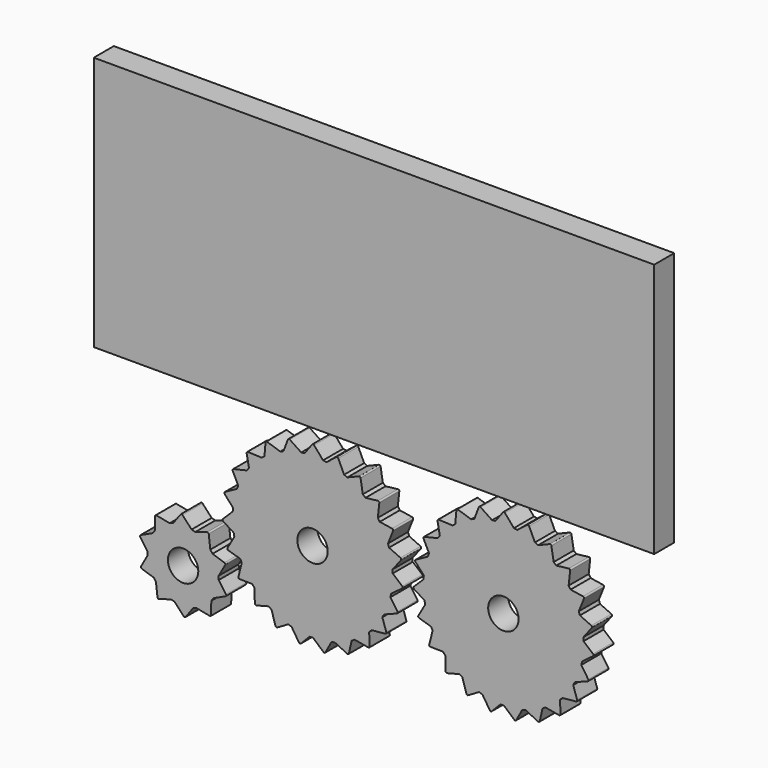
from build123d import *

# Parameters (mm, degrees)
F0_R     = 7.275329
F0_W     = 268.384851
F0_H     = 122.030161
F1_DEPTH = 12
F2_DEPTH = 12


with BuildPart() as f1:
    # F0 (on Front) → F1 (new body)
    with BuildSketch(Plane.XZ):
        with BuildLine():
            Line((-11.844229, 41.350073), (-13.967175, 35.724335))
            ThreePointArc((-13.967175, 35.724335), (-14.73732, 35.413578), (-15.500557, 35.08622))
            Line((-15.500557, 35.08622), (-21.792592, 37.129706))
            ThreePointArc((-21.792592, 37.129706), (-22.299465, 37.060723), (-22.561129, 36.621166))
            Line((-22.561129, 36.621166), (-23.087545, 30.631281))
            ThreePointArc((-23.087545, 30.631281), (-23.74529, 30.124265), (-24.391903, 29.603128))
            Line((-24.391903, 29.603128), (-31.001938, 29.873265))
            ThreePointArc((-31.001938, 29.873265), (-31.471403, 29.670087), (-31.604774, 29.176234))
            Line((-31.604774, 29.176234), (-30.495617, 23.266445))
            ThreePointArc((-30.495617, 23.266445), (-30.992179, 22.600773), (-31.474214, 21.924507))
            Line((-31.474214, 21.924507), (-37.912013, 20.40126))
            ThreePointArc((-37.912013, 20.40126), (-38.309252, 20.078957), (-38.304437, 19.567434))
            Line((-38.304437, 19.567434), (-35.641968, 14.176043))
            ThreePointArc((-35.641968, 14.176043), (-35.940521, 13.401085), (-36.222225, 12.619845))
            Line((-36.222225, 12.619845), (-42.010326, 9.416187))
            ThreePointArc((-42.010326, 9.416187), (-42.305879, 8.998662), (-42.163235, 8.507407))
            Line((-42.163235, 8.507407), (-38.144918, 4.034269))
            ThreePointArc((-38.144918, 4.034269), (-38.223318, 3.2075), (-38.283801, 2.379228))
            Line((-38.283801, 2.379228), (-42.992926, -2.267241))
            ThreePointArc((-42.992926, -2.267241), (-43.164872, -2.749022), (-42.894978, -3.183575))
            Line((-42.894978, -3.183575), (-37.818834, -6.406708))
            ThreePointArc((-37.818834, -6.406708), (-37.671267, -7.22397), (-37.506041, -8.037846))
            Line((-37.506041, -8.037846), (-40.786938, -13.782518))
            ThreePointArc((-40.786938, -13.782518), (-40.822524, -14.292824), (-40.445398, -14.638446))
            Line((-40.445398, -14.638446), (-34.6879, -16.37253))
            ThreePointArc((-34.6879, -16.37253), (-34.32531, -17.119672), (-33.946631, -17.85879))
            Line((-33.946631, -17.85879), (-35.555969, -24.275609))
            ThreePointArc((-35.555969, -24.275609), (-35.452556, -24.776593), (-34.996167, -25.007651))
            Line((-34.996167, -25.007651), (-28.984323, -25.124075))
            ThreePointArc((-28.984323, -25.124075), (-28.433603, -25.745686), (-27.869554, -26.355229))
            Line((-27.869554, -26.355229), (-27.687976, -32.968289))
            ThreePointArc((-27.687976, -32.968289), (-27.453235, -33.422795), (-26.951431, -33.522152))
            Line((-26.951431, -33.522152), (-21.131111, -32.012283))
            ThreePointArc((-21.131111, -32.012283), (-20.433104, -32.462261), (-19.725519, -32.897021))
            Line((-19.725519, -32.897021), (-17.766493, -39.215862))
            ThreePointArc((-17.766493, -39.215862), (-17.417832, -39.590181), (-16.907831, -39.550469))
            Line((-16.907831, -39.550469), (-11.710702, -36.526286))
            ThreePointArc((-11.710702, -36.526286), (-10.917176, -36.771257), (-10.118534, -36.998992))
            Line((-10.118534, -36.998992), (-6.52735, -42.554974))
            ThreePointArc((-6.52735, -42.554974), (-6.090629, -42.821344), (-5.610254, -42.645508))
            Line((-5.610254, -42.645508), (-1.421763, -38.331302))
            ThreePointArc((-1.421763, -38.331302), (-0.591571, -38.353098), (0.238898, -38.356917))
            Line((0.238898, -38.356917), (5.195896, -42.737978))
            ThreePointArc((5.195896, -42.737978), (5.688289, -42.876645), (6.10341, -42.577726))
            Line((6.10341, -42.577726), (8.972621, -37.29346))
            ThreePointArc((8.972621, -37.29346), (9.777908, -37.090466), (10.578611, -36.870084))
            Line((10.578611, -36.870084), (16.533787, -39.751302))
            ThreePointArc((16.533787, -39.751302), (17.045332, -39.751981), (17.364412, -39.352148))
            Line((17.364412, -39.352148), (18.701547, -33.489733))
            ThreePointArc((18.701547, -33.489733), (19.422204, -33.077002), (20.133757, -32.648766))
            Line((20.133757, -32.648766), (26.645442, -33.816453))
            ThreePointArc((26.645442, -33.816453), (27.138201, -33.679094), (27.337575, -33.208001))
            Line((27.337575, -33.208001), (27.043465, -27.202226))
            ThreePointArc((27.043465, -27.202226), (27.626045, -26.610369), (28.195674, -26.006039))
            Line((28.195674, -26.006039), (34.780927, -25.373593))
            ThreePointArc((34.780927, -25.373593), (35.218353, -25.108383), (35.283235, -24.600969))
            Line((35.283235, -24.600969), (33.379693, -18.897254))
            ThreePointArc((33.379693, -18.897254), (33.780988, -18.170167), (34.166448, -17.434563))
            Line((34.166448, -17.434563), (40.336869, -15.04889))
            ThreePointArc((40.336869, -15.04889), (40.686522, -14.675498), (40.612099, -14.169395))
            Line((40.612099, -14.169395), (37.240302, -9.190759))
            ThreePointArc((37.240302, -9.190759), (37.43055, -8.382367), (37.603252, -7.570044))
            Line((37.603252, -7.570044), (42.901211, -3.608079))
            ThreePointArc((42.901211, -3.608079), (43.137157, -3.154198), (42.928949, -2.686942))
            Line((42.928949, -2.686942), (38.338967, 1.197372))
            ThreePointArc((38.338967, 1.197372), (38.304059, 2.027116), (38.251195, 2.855909))
            Line((38.251195, 2.855909), (42.283765, 8.100326))
            ThreePointArc((42.283765, 8.100326), (42.388507, 8.601034), (42.061956, 8.994789))
            Line((42.061956, 8.994789), (36.594207, 11.4967))
            ThreePointArc((36.594207, 11.4967), (36.336731, 12.286256), (36.062222, 13.070053))
            Line((36.062222, 13.070053), (38.530327, 19.207968))
            ThreePointArc((38.530327, 19.207968), (38.496095, 19.718366), (38.075419, 20.009417))
            Line((38.075419, 20.009417), (32.135422, 20.94337))
            ThreePointArc((32.135422, 20.94337), (31.674474, 21.634181), (31.198678, 22.314851))
            Line((31.198678, 22.314851), (31.91927, 28.891042))
            ThreePointArc((31.91927, 28.891042), (31.748604, 29.373278), (31.265003, 29.540039))
            Line((31.265003, 29.540039), (25.2933, 28.836766))
            ThreePointArc((25.2933, 28.836766), (24.663067, 29.377598), (24.021272, 29.904659))
            Line((24.021272, 29.904659), (22.940907, 36.4314))
            ThreePointArc((22.940907, 36.4314), (22.646464, 36.849708), (22.135805, 36.879811))
            Line((22.135805, 36.879811), (16.575289, 34.591471))
            ThreePointArc((16.575289, 34.591471), (15.822512, 34.942213), (15.062318, 35.276574))
            Line((15.062318, 35.276574), (12.261122, 41.269807))
            ThreePointArc((12.261122, 41.269807), (11.864739, 41.593164), (11.364895, 41.484376))
            Line((11.364895, 41.484376), (6.627965, 37.780685))
            ThreePointArc((6.627965, 37.780685), (5.808474, 37.915323), (4.98626, 38.032188))
            Line((4.98626, 38.032188), (0.671986, 43.047422))
            ThreePointArc((0.671986, 43.047422), (0.203061, 43.251845), (-0.248897, 43.012235))
            Line((-0.248897, 43.012235), (-3.810924, 38.167879))
            ThreePointArc((-3.810924, 38.167879), (-4.636352, 38.076428), (-5.459605, 37.967128))
            Line((-5.459605, 37.967128), (-10.966989, 41.632406))
            ThreePointArc((-10.966989, 41.632406), (-11.473677, 41.702734), (-11.844229, 41.350073))
        make_face()
        with Locations((-0.052359, 0.366526)):
            Circle(F0_R, mode=Mode.SUBTRACT)
        with BuildLine():
            Line((79.551505, 42.504045), (77.428559, 36.878307))
            ThreePointArc((77.428559, 36.878307), (76.658414, 36.56755), (75.895177, 36.240192))
            Line((75.895177, 36.240192), (69.603142, 38.283677))
            ThreePointArc((69.603142, 38.283677), (69.096269, 38.214694), (68.834605, 37.775137))
            Line((68.834605, 37.775137), (68.308189, 31.785253))
            ThreePointArc((68.308189, 31.785253), (67.650444, 31.278237), (67.003831, 30.757099))
            Line((67.003831, 30.757099), (60.393796, 31.027236))
            ThreePointArc((60.393796, 31.027236), (59.924331, 30.824059), (59.79096, 30.330205))
            Line((59.79096, 30.330205), (60.900117, 24.420417))
            ThreePointArc((60.900117, 24.420417), (60.403555, 23.754745), (59.92152, 23.078478))
            Line((59.92152, 23.078478), (53.483721, 21.555232))
            ThreePointArc((53.483721, 21.555232), (53.086482, 21.232928), (53.091297, 20.721405))
            Line((53.091297, 20.721405), (55.753765, 15.330015))
            ThreePointArc((55.753765, 15.330015), (55.455213, 14.555057), (55.173508, 13.773817))
            Line((55.173508, 13.773817), (49.385408, 10.570159))
            ThreePointArc((49.385408, 10.570159), (49.089855, 10.152634), (49.232499, 9.661379))
            Line((49.232499, 9.661379), (53.250816, 5.188241))
            ThreePointArc((53.250816, 5.188241), (53.172416, 4.361472), (53.111933, 3.533199))
            Line((53.111933, 3.533199), (48.402807, -1.113269))
            ThreePointArc((48.402807, -1.113269), (48.230862, -1.595051), (48.500755, -2.029604))
            Line((48.500755, -2.029604), (53.5769, -5.252737))
            ThreePointArc((53.5769, -5.252737), (53.724467, -6.069999), (53.889693, -6.883875))
            Line((53.889693, -6.883875), (50.608796, -12.628547))
            ThreePointArc((50.608796, -12.628547), (50.57321, -13.138853), (50.950336, -13.484475))
            Line((50.950336, -13.484475), (56.707834, -15.218558))
            ThreePointArc((56.707834, -15.218558), (57.070423, -15.965701), (57.449103, -16.704818))
            Line((57.449103, -16.704818), (55.839765, -23.121638))
            ThreePointArc((55.839765, -23.121638), (55.943178, -23.622621), (56.399567, -23.853679))
            Line((56.399567, -23.853679), (62.411411, -23.970104))
            ThreePointArc((62.411411, -23.970104), (62.962131, -24.591715), (63.52618, -25.201257))
            Line((63.52618, -25.201257), (63.707758, -31.814318))
            ThreePointArc((63.707758, -31.814318), (63.942499, -32.268823), (64.444303, -32.368181))
            Line((64.444303, -32.368181), (70.264623, -30.858311))
            ThreePointArc((70.264623, -30.858311), (70.96263, -31.308289), (71.670215, -31.74305))
            Line((71.670215, -31.74305), (73.629241, -38.061891))
            ThreePointArc((73.629241, -38.061891), (73.977902, -38.436209), (74.487903, -38.396497))
            Line((74.487903, -38.396497), (79.685032, -35.372315))
            ThreePointArc((79.685032, -35.372315), (80.478558, -35.617286), (81.2772, -35.84502))
            Line((81.2772, -35.84502), (84.868384, -41.401002))
            ThreePointArc((84.868384, -41.401002), (85.305105, -41.667373), (85.78548, -41.491537))
            Line((85.78548, -41.491537), (89.973971, -37.17733))
            ThreePointArc((89.973971, -37.17733), (90.804163, -37.199127), (91.634632, -37.202945))
            Line((91.634632, -37.202945), (96.59163, -41.584007))
            ThreePointArc((96.59163, -41.584007), (97.084023, -41.722673), (97.499144, -41.423754))
            Line((97.499144, -41.423754), (100.368355, -36.139489))
            ThreePointArc((100.368355, -36.139489), (101.173642, -35.936494), (101.974345, -35.716113))
            Line((101.974345, -35.716113), (107.929521, -38.59733))
            ThreePointArc((107.929521, -38.59733), (108.441066, -38.598009), (108.760146, -38.198176))
            Line((108.760146, -38.198176), (110.097281, -32.335762))
            ThreePointArc((110.097281, -32.335762), (110.817938, -31.923031), (111.529491, -31.494795))
            Line((111.529491, -31.494795), (118.041176, -32.662482))
            ThreePointArc((118.041176, -32.662482), (118.533935, -32.525122), (118.733309, -32.054029))
            Line((118.733309, -32.054029), (118.439199, -26.048255))
            ThreePointArc((118.439199, -26.048255), (119.021779, -25.456398), (119.591408, -24.852067))
            Line((119.591408, -24.852067), (126.176661, -24.219622))
            ThreePointArc((126.176661, -24.219622), (126.614087, -23.954411), (126.678969, -23.446997))
            Line((126.678969, -23.446997), (124.775427, -17.743283))
            ThreePointArc((124.775427, -17.743283), (125.176722, -17.016196), (125.562182, -16.280591))
            Line((125.562182, -16.280591), (131.732603, -13.894918))
            ThreePointArc((131.732603, -13.894918), (132.082256, -13.521526), (132.007833, -13.015424))
            Line((132.007833, -13.015424), (128.636036, -8.036788))
            ThreePointArc((128.636036, -8.036788), (128.826284, -7.228395), (128.998986, -6.416073))
            Line((128.998986, -6.416073), (134.296945, -2.454108))
            ThreePointArc((134.296945, -2.454108), (134.532891, -2.000227), (134.324683, -1.532971))
            Line((134.324683, -1.532971), (129.734701, 2.351344))
            ThreePointArc((129.734701, 2.351344), (129.699793, 3.181087), (129.646929, 4.009881))
            Line((129.646929, 4.009881), (133.679499, 9.254298))
            ThreePointArc((133.679499, 9.254298), (133.784241, 9.755005), (133.45769, 10.14876))
            Line((133.45769, 10.14876), (127.989941, 12.650671))
            ThreePointArc((127.989941, 12.650671), (127.732465, 13.440228), (127.457956, 14.224025))
            Line((127.457956, 14.224025), (129.926061, 20.361939))
            ThreePointArc((129.926061, 20.361939), (129.891829, 20.872338), (129.471153, 21.163389))
            Line((129.471153, 21.163389), (123.531156, 22.097342))
            ThreePointArc((123.531156, 22.097342), (123.070208, 22.788153), (122.594412, 23.468823))
            Line((122.594412, 23.468823), (123.315004, 30.045013))
            ThreePointArc((123.315004, 30.045013), (123.144338, 30.52725), (122.660737, 30.694011))
            Line((122.660737, 30.694011), (116.689034, 29.990738))
            ThreePointArc((116.689034, 29.990738), (116.058801, 30.53157), (115.417006, 31.05863))
            Line((115.417006, 31.05863), (114.336641, 37.585371))
            ThreePointArc((114.336641, 37.585371), (114.042198, 38.003679), (113.531539, 38.033783))
            Line((113.531539, 38.033783), (107.971023, 35.745443))
            ThreePointArc((107.971023, 35.745443), (107.218246, 36.096184), (106.458052, 36.430546))
            Line((106.458052, 36.430546), (103.656856, 42.423779))
            ThreePointArc((103.656856, 42.423779), (103.260473, 42.747135), (102.760629, 42.638348))
            Line((102.760629, 42.638348), (98.023699, 38.934657))
            ThreePointArc((98.023699, 38.934657), (97.204208, 39.069295), (96.381994, 39.18616))
            Line((96.381994, 39.18616), (92.06772, 44.201394))
            ThreePointArc((92.06772, 44.201394), (91.598795, 44.405816), (91.146837, 44.166207))
            Line((91.146837, 44.166207), (87.58481, 39.32185))
            ThreePointArc((87.58481, 39.32185), (86.759382, 39.230399), (85.936129, 39.1211))
            Line((85.936129, 39.1211), (80.428745, 42.786378))
            ThreePointArc((80.428745, 42.786378), (79.922057, 42.856706), (79.551505, 42.504045))
        make_face()
        with Locations((91.343375, 1.520498)):
            Circle(F0_R, mode=Mode.SUBTRACT)
        with BuildLine():
            ThreePointArc((-62.332245, -6.889978), (-62.797472, -6.702605), (-63.238364, -6.941688))
            Line((-63.238364, -6.941688), (-66.800391, -11.786044))
            ThreePointArc((-66.800391, -11.786044), (-67.645736, -12.056012), (-68.475898, -12.369575))
            Line((-68.475898, -12.369575), (-74.781066, -11.127882))
            ThreePointArc((-74.781066, -11.127882), (-75.267578, -11.249748), (-75.483738, -11.702319))
            Line((-75.483738, -11.702319), (-75.518037, -17.715193))
            ThreePointArc((-75.518037, -17.715193), (-76.043252, -18.430483), (-76.53056, -19.172118))
            Line((-76.53056, -19.172118), (-82.361397, -21.873652))
            ThreePointArc((-82.361397, -21.873652), (-82.683362, -22.258208), (-82.592224, -22.751401))
            Line((-82.592224, -22.751401), (-79.085694, -27.63608))
            ThreePointArc((-79.085694, -27.63608), (-79.090166, -28.523475), (-79.048483, -29.409902))
            Line((-79.048483, -29.409902), (-82.177808, -35.022769))
            ThreePointArc((-82.177808, -35.022769), (-82.212247, -35.523128), (-81.848623, -35.86856))
            Line((-81.848623, -35.86856), (-76.140639, -37.759261))
            ThreePointArc((-76.140639, -37.759261), (-75.622658, -38.479807), (-75.067908, -39.172442))
            Line((-75.067908, -39.172442), (-74.300424, -45.552717))
            ThreePointArc((-74.300424, -45.552717), (-74.034182, -45.977759), (-73.536965, -46.043487))
            Line((-73.536965, -46.043487), (-67.807782, -44.218027))
            ThreePointArc((-67.807782, -44.218027), (-66.965201, -44.4965), (-66.109278, -44.730779))
            Line((-66.109278, -44.730779), (-61.738139, -49.441414))
            ThreePointArc((-61.738139, -49.441414), (-61.272911, -49.628787), (-60.83202, -49.389705))
            Line((-60.83202, -49.389705), (-57.269992, -44.545348))
            ThreePointArc((-57.269992, -44.545348), (-56.424647, -44.27538), (-55.594485, -43.961817))
            Line((-55.594485, -43.961817), (-49.289318, -45.203511))
            ThreePointArc((-49.289318, -45.203511), (-48.802806, -45.081644), (-48.586646, -44.629073))
            Line((-48.586646, -44.629073), (-48.552346, -38.616199))
            ThreePointArc((-48.552346, -38.616199), (-48.027131, -37.900909), (-47.539824, -37.159274))
            Line((-47.539824, -37.159274), (-41.708987, -34.457741))
            ThreePointArc((-41.708987, -34.457741), (-41.387022, -34.073184), (-41.47816, -33.579991))
            Line((-41.47816, -33.579991), (-44.984689, -28.695313))
            ThreePointArc((-44.984689, -28.695313), (-44.980218, -27.807917), (-45.0219, -26.92149))
            Line((-45.0219, -26.92149), (-41.892576, -21.308624))
            ThreePointArc((-41.892576, -21.308624), (-41.858137, -20.808264), (-42.221761, -20.462832))
            Line((-42.221761, -20.462832), (-47.929745, -18.572131))
            ThreePointArc((-47.929745, -18.572131), (-48.447725, -17.851585), (-49.002476, -17.158951))
            Line((-49.002476, -17.158951), (-49.769959, -10.778675))
            ThreePointArc((-49.769959, -10.778675), (-50.036201, -10.353634), (-50.533419, -10.287906))
            Line((-50.533419, -10.287906), (-56.262601, -12.113365))
            ThreePointArc((-56.262601, -12.113365), (-57.105183, -11.834893), (-57.961106, -11.600614))
            Line((-57.961106, -11.600614), (-62.332245, -6.889978))
        make_face()
        with Locations((-62.035192, -28.165696)):
            Circle(F0_R, mode=Mode.SUBTRACT)
        with Locations((29.370528, 111.077908)):
            Rectangle(F0_W, F0_H)
    extrude(amount=F1_DEPTH)

    # F0 (on Front) → F2 (join)
    with BuildSketch(Plane.XZ):
        with BuildLine():
            Line((-11.844229, 41.350073), (-13.967175, 35.724335))
            ThreePointArc((-13.967175, 35.724335), (-14.73732, 35.413578), (-15.500557, 35.08622))
            Line((-15.500557, 35.08622), (-21.792592, 37.129706))
            ThreePointArc((-21.792592, 37.129706), (-22.299465, 37.060723), (-22.561129, 36.621166))
            Line((-22.561129, 36.621166), (-23.087545, 30.631281))
            ThreePointArc((-23.087545, 30.631281), (-23.74529, 30.124265), (-24.391903, 29.603128))
            Line((-24.391903, 29.603128), (-31.001938, 29.873265))
            ThreePointArc((-31.001938, 29.873265), (-31.471403, 29.670087), (-31.604774, 29.176234))
            Line((-31.604774, 29.176234), (-30.495617, 23.266445))
            ThreePointArc((-30.495617, 23.266445), (-30.992179, 22.600773), (-31.474214, 21.924507))
            Line((-31.474214, 21.924507), (-37.912013, 20.40126))
            ThreePointArc((-37.912013, 20.40126), (-38.309252, 20.078957), (-38.304437, 19.567434))
            Line((-38.304437, 19.567434), (-35.641968, 14.176043))
            ThreePointArc((-35.641968, 14.176043), (-35.940521, 13.401085), (-36.222225, 12.619845))
            Line((-36.222225, 12.619845), (-42.010326, 9.416187))
            ThreePointArc((-42.010326, 9.416187), (-42.305879, 8.998662), (-42.163235, 8.507407))
            Line((-42.163235, 8.507407), (-38.144918, 4.034269))
            ThreePointArc((-38.144918, 4.034269), (-38.223318, 3.2075), (-38.283801, 2.379228))
            Line((-38.283801, 2.379228), (-42.992926, -2.267241))
            ThreePointArc((-42.992926, -2.267241), (-43.164872, -2.749022), (-42.894978, -3.183575))
            Line((-42.894978, -3.183575), (-37.818834, -6.406708))
            ThreePointArc((-37.818834, -6.406708), (-37.671267, -7.22397), (-37.506041, -8.037846))
            Line((-37.506041, -8.037846), (-40.786938, -13.782518))
            ThreePointArc((-40.786938, -13.782518), (-40.822524, -14.292824), (-40.445398, -14.638446))
            Line((-40.445398, -14.638446), (-34.6879, -16.37253))
            ThreePointArc((-34.6879, -16.37253), (-34.32531, -17.119672), (-33.946631, -17.85879))
            Line((-33.946631, -17.85879), (-35.555969, -24.275609))
            ThreePointArc((-35.555969, -24.275609), (-35.452556, -24.776593), (-34.996167, -25.007651))
            Line((-34.996167, -25.007651), (-28.984323, -25.124075))
            ThreePointArc((-28.984323, -25.124075), (-28.433603, -25.745686), (-27.869554, -26.355229))
            Line((-27.869554, -26.355229), (-27.687976, -32.968289))
            ThreePointArc((-27.687976, -32.968289), (-27.453235, -33.422795), (-26.951431, -33.522152))
            Line((-26.951431, -33.522152), (-21.131111, -32.012283))
            ThreePointArc((-21.131111, -32.012283), (-20.433104, -32.462261), (-19.725519, -32.897021))
            Line((-19.725519, -32.897021), (-17.766493, -39.215862))
            ThreePointArc((-17.766493, -39.215862), (-17.417832, -39.590181), (-16.907831, -39.550469))
            Line((-16.907831, -39.550469), (-11.710702, -36.526286))
            ThreePointArc((-11.710702, -36.526286), (-10.917176, -36.771257), (-10.118534, -36.998992))
            Line((-10.118534, -36.998992), (-6.52735, -42.554974))
            ThreePointArc((-6.52735, -42.554974), (-6.090629, -42.821344), (-5.610254, -42.645508))
            Line((-5.610254, -42.645508), (-1.421763, -38.331302))
            ThreePointArc((-1.421763, -38.331302), (-0.591571, -38.353098), (0.238898, -38.356917))
            Line((0.238898, -38.356917), (5.195896, -42.737978))
            ThreePointArc((5.195896, -42.737978), (5.688289, -42.876645), (6.10341, -42.577726))
            Line((6.10341, -42.577726), (8.972621, -37.29346))
            ThreePointArc((8.972621, -37.29346), (9.777908, -37.090466), (10.578611, -36.870084))
            Line((10.578611, -36.870084), (16.533787, -39.751302))
            ThreePointArc((16.533787, -39.751302), (17.045332, -39.751981), (17.364412, -39.352148))
            Line((17.364412, -39.352148), (18.701547, -33.489733))
            ThreePointArc((18.701547, -33.489733), (19.422204, -33.077002), (20.133757, -32.648766))
            Line((20.133757, -32.648766), (26.645442, -33.816453))
            ThreePointArc((26.645442, -33.816453), (27.138201, -33.679094), (27.337575, -33.208001))
            Line((27.337575, -33.208001), (27.043465, -27.202226))
            ThreePointArc((27.043465, -27.202226), (27.626045, -26.610369), (28.195674, -26.006039))
            Line((28.195674, -26.006039), (34.780927, -25.373593))
            ThreePointArc((34.780927, -25.373593), (35.218353, -25.108383), (35.283235, -24.600969))
            Line((35.283235, -24.600969), (33.379693, -18.897254))
            ThreePointArc((33.379693, -18.897254), (33.780988, -18.170167), (34.166448, -17.434563))
            Line((34.166448, -17.434563), (40.336869, -15.04889))
            ThreePointArc((40.336869, -15.04889), (40.686522, -14.675498), (40.612099, -14.169395))
            Line((40.612099, -14.169395), (37.240302, -9.190759))
            ThreePointArc((37.240302, -9.190759), (37.43055, -8.382367), (37.603252, -7.570044))
            Line((37.603252, -7.570044), (42.901211, -3.608079))
            ThreePointArc((42.901211, -3.608079), (43.137157, -3.154198), (42.928949, -2.686942))
            Line((42.928949, -2.686942), (38.338967, 1.197372))
            ThreePointArc((38.338967, 1.197372), (38.304059, 2.027116), (38.251195, 2.855909))
            Line((38.251195, 2.855909), (42.283765, 8.100326))
            ThreePointArc((42.283765, 8.100326), (42.388507, 8.601034), (42.061956, 8.994789))
            Line((42.061956, 8.994789), (36.594207, 11.4967))
            ThreePointArc((36.594207, 11.4967), (36.336731, 12.286256), (36.062222, 13.070053))
            Line((36.062222, 13.070053), (38.530327, 19.207968))
            ThreePointArc((38.530327, 19.207968), (38.496095, 19.718366), (38.075419, 20.009417))
            Line((38.075419, 20.009417), (32.135422, 20.94337))
            ThreePointArc((32.135422, 20.94337), (31.674474, 21.634181), (31.198678, 22.314851))
            Line((31.198678, 22.314851), (31.91927, 28.891042))
            ThreePointArc((31.91927, 28.891042), (31.748604, 29.373278), (31.265003, 29.540039))
            Line((31.265003, 29.540039), (25.2933, 28.836766))
            ThreePointArc((25.2933, 28.836766), (24.663067, 29.377598), (24.021272, 29.904659))
            Line((24.021272, 29.904659), (22.940907, 36.4314))
            ThreePointArc((22.940907, 36.4314), (22.646464, 36.849708), (22.135805, 36.879811))
            Line((22.135805, 36.879811), (16.575289, 34.591471))
            ThreePointArc((16.575289, 34.591471), (15.822512, 34.942213), (15.062318, 35.276574))
            Line((15.062318, 35.276574), (12.261122, 41.269807))
            ThreePointArc((12.261122, 41.269807), (11.864739, 41.593164), (11.364895, 41.484376))
            Line((11.364895, 41.484376), (6.627965, 37.780685))
            ThreePointArc((6.627965, 37.780685), (5.808474, 37.915323), (4.98626, 38.032188))
            Line((4.98626, 38.032188), (0.671986, 43.047422))
            ThreePointArc((0.671986, 43.047422), (0.203061, 43.251845), (-0.248897, 43.012235))
            Line((-0.248897, 43.012235), (-3.810924, 38.167879))
            ThreePointArc((-3.810924, 38.167879), (-4.636352, 38.076428), (-5.459605, 37.967128))
            Line((-5.459605, 37.967128), (-10.966989, 41.632406))
            ThreePointArc((-10.966989, 41.632406), (-11.473677, 41.702734), (-11.844229, 41.350073))
        make_face()
        with Locations((-0.052359, 0.366526)):
            Circle(F0_R, mode=Mode.SUBTRACT)
        with BuildLine():
            Line((79.551505, 42.504045), (77.428559, 36.878307))
            ThreePointArc((77.428559, 36.878307), (76.658414, 36.56755), (75.895177, 36.240192))
            Line((75.895177, 36.240192), (69.603142, 38.283677))
            ThreePointArc((69.603142, 38.283677), (69.096269, 38.214694), (68.834605, 37.775137))
            Line((68.834605, 37.775137), (68.308189, 31.785253))
            ThreePointArc((68.308189, 31.785253), (67.650444, 31.278237), (67.003831, 30.757099))
            Line((67.003831, 30.757099), (60.393796, 31.027236))
            ThreePointArc((60.393796, 31.027236), (59.924331, 30.824059), (59.79096, 30.330205))
            Line((59.79096, 30.330205), (60.900117, 24.420417))
            ThreePointArc((60.900117, 24.420417), (60.403555, 23.754745), (59.92152, 23.078478))
            Line((59.92152, 23.078478), (53.483721, 21.555232))
            ThreePointArc((53.483721, 21.555232), (53.086482, 21.232928), (53.091297, 20.721405))
            Line((53.091297, 20.721405), (55.753765, 15.330015))
            ThreePointArc((55.753765, 15.330015), (55.455213, 14.555057), (55.173508, 13.773817))
            Line((55.173508, 13.773817), (49.385408, 10.570159))
            ThreePointArc((49.385408, 10.570159), (49.089855, 10.152634), (49.232499, 9.661379))
            Line((49.232499, 9.661379), (53.250816, 5.188241))
            ThreePointArc((53.250816, 5.188241), (53.172416, 4.361472), (53.111933, 3.533199))
            Line((53.111933, 3.533199), (48.402807, -1.113269))
            ThreePointArc((48.402807, -1.113269), (48.230862, -1.595051), (48.500755, -2.029604))
            Line((48.500755, -2.029604), (53.5769, -5.252737))
            ThreePointArc((53.5769, -5.252737), (53.724467, -6.069999), (53.889693, -6.883875))
            Line((53.889693, -6.883875), (50.608796, -12.628547))
            ThreePointArc((50.608796, -12.628547), (50.57321, -13.138853), (50.950336, -13.484475))
            Line((50.950336, -13.484475), (56.707834, -15.218558))
            ThreePointArc((56.707834, -15.218558), (57.070423, -15.965701), (57.449103, -16.704818))
            Line((57.449103, -16.704818), (55.839765, -23.121638))
            ThreePointArc((55.839765, -23.121638), (55.943178, -23.622621), (56.399567, -23.853679))
            Line((56.399567, -23.853679), (62.411411, -23.970104))
            ThreePointArc((62.411411, -23.970104), (62.962131, -24.591715), (63.52618, -25.201257))
            Line((63.52618, -25.201257), (63.707758, -31.814318))
            ThreePointArc((63.707758, -31.814318), (63.942499, -32.268823), (64.444303, -32.368181))
            Line((64.444303, -32.368181), (70.264623, -30.858311))
            ThreePointArc((70.264623, -30.858311), (70.96263, -31.308289), (71.670215, -31.74305))
            Line((71.670215, -31.74305), (73.629241, -38.061891))
            ThreePointArc((73.629241, -38.061891), (73.977902, -38.436209), (74.487903, -38.396497))
            Line((74.487903, -38.396497), (79.685032, -35.372315))
            ThreePointArc((79.685032, -35.372315), (80.478558, -35.617286), (81.2772, -35.84502))
            Line((81.2772, -35.84502), (84.868384, -41.401002))
            ThreePointArc((84.868384, -41.401002), (85.305105, -41.667373), (85.78548, -41.491537))
            Line((85.78548, -41.491537), (89.973971, -37.17733))
            ThreePointArc((89.973971, -37.17733), (90.804163, -37.199127), (91.634632, -37.202945))
            Line((91.634632, -37.202945), (96.59163, -41.584007))
            ThreePointArc((96.59163, -41.584007), (97.084023, -41.722673), (97.499144, -41.423754))
            Line((97.499144, -41.423754), (100.368355, -36.139489))
            ThreePointArc((100.368355, -36.139489), (101.173642, -35.936494), (101.974345, -35.716113))
            Line((101.974345, -35.716113), (107.929521, -38.59733))
            ThreePointArc((107.929521, -38.59733), (108.441066, -38.598009), (108.760146, -38.198176))
            Line((108.760146, -38.198176), (110.097281, -32.335762))
            ThreePointArc((110.097281, -32.335762), (110.817938, -31.923031), (111.529491, -31.494795))
            Line((111.529491, -31.494795), (118.041176, -32.662482))
            ThreePointArc((118.041176, -32.662482), (118.533935, -32.525122), (118.733309, -32.054029))
            Line((118.733309, -32.054029), (118.439199, -26.048255))
            ThreePointArc((118.439199, -26.048255), (119.021779, -25.456398), (119.591408, -24.852067))
            Line((119.591408, -24.852067), (126.176661, -24.219622))
            ThreePointArc((126.176661, -24.219622), (126.614087, -23.954411), (126.678969, -23.446997))
            Line((126.678969, -23.446997), (124.775427, -17.743283))
            ThreePointArc((124.775427, -17.743283), (125.176722, -17.016196), (125.562182, -16.280591))
            Line((125.562182, -16.280591), (131.732603, -13.894918))
            ThreePointArc((131.732603, -13.894918), (132.082256, -13.521526), (132.007833, -13.015424))
            Line((132.007833, -13.015424), (128.636036, -8.036788))
            ThreePointArc((128.636036, -8.036788), (128.826284, -7.228395), (128.998986, -6.416073))
            Line((128.998986, -6.416073), (134.296945, -2.454108))
            ThreePointArc((134.296945, -2.454108), (134.532891, -2.000227), (134.324683, -1.532971))
            Line((134.324683, -1.532971), (129.734701, 2.351344))
            ThreePointArc((129.734701, 2.351344), (129.699793, 3.181087), (129.646929, 4.009881))
            Line((129.646929, 4.009881), (133.679499, 9.254298))
            ThreePointArc((133.679499, 9.254298), (133.784241, 9.755005), (133.45769, 10.14876))
            Line((133.45769, 10.14876), (127.989941, 12.650671))
            ThreePointArc((127.989941, 12.650671), (127.732465, 13.440228), (127.457956, 14.224025))
            Line((127.457956, 14.224025), (129.926061, 20.361939))
            ThreePointArc((129.926061, 20.361939), (129.891829, 20.872338), (129.471153, 21.163389))
            Line((129.471153, 21.163389), (123.531156, 22.097342))
            ThreePointArc((123.531156, 22.097342), (123.070208, 22.788153), (122.594412, 23.468823))
            Line((122.594412, 23.468823), (123.315004, 30.045013))
            ThreePointArc((123.315004, 30.045013), (123.144338, 30.52725), (122.660737, 30.694011))
            Line((122.660737, 30.694011), (116.689034, 29.990738))
            ThreePointArc((116.689034, 29.990738), (116.058801, 30.53157), (115.417006, 31.05863))
            Line((115.417006, 31.05863), (114.336641, 37.585371))
            ThreePointArc((114.336641, 37.585371), (114.042198, 38.003679), (113.531539, 38.033783))
            Line((113.531539, 38.033783), (107.971023, 35.745443))
            ThreePointArc((107.971023, 35.745443), (107.218246, 36.096184), (106.458052, 36.430546))
            Line((106.458052, 36.430546), (103.656856, 42.423779))
            ThreePointArc((103.656856, 42.423779), (103.260473, 42.747135), (102.760629, 42.638348))
            Line((102.760629, 42.638348), (98.023699, 38.934657))
            ThreePointArc((98.023699, 38.934657), (97.204208, 39.069295), (96.381994, 39.18616))
            Line((96.381994, 39.18616), (92.06772, 44.201394))
            ThreePointArc((92.06772, 44.201394), (91.598795, 44.405816), (91.146837, 44.166207))
            Line((91.146837, 44.166207), (87.58481, 39.32185))
            ThreePointArc((87.58481, 39.32185), (86.759382, 39.230399), (85.936129, 39.1211))
            Line((85.936129, 39.1211), (80.428745, 42.786378))
            ThreePointArc((80.428745, 42.786378), (79.922057, 42.856706), (79.551505, 42.504045))
        make_face()
        with Locations((91.343375, 1.520498)):
            Circle(F0_R, mode=Mode.SUBTRACT)
        with BuildLine():
            ThreePointArc((-62.332245, -6.889978), (-62.797472, -6.702605), (-63.238364, -6.941688))
            Line((-63.238364, -6.941688), (-66.800391, -11.786044))
            ThreePointArc((-66.800391, -11.786044), (-67.645736, -12.056012), (-68.475898, -12.369575))
            Line((-68.475898, -12.369575), (-74.781066, -11.127882))
            ThreePointArc((-74.781066, -11.127882), (-75.267578, -11.249748), (-75.483738, -11.702319))
            Line((-75.483738, -11.702319), (-75.518037, -17.715193))
            ThreePointArc((-75.518037, -17.715193), (-76.043252, -18.430483), (-76.53056, -19.172118))
            Line((-76.53056, -19.172118), (-82.361397, -21.873652))
            ThreePointArc((-82.361397, -21.873652), (-82.683362, -22.258208), (-82.592224, -22.751401))
            Line((-82.592224, -22.751401), (-79.085694, -27.63608))
            ThreePointArc((-79.085694, -27.63608), (-79.090166, -28.523475), (-79.048483, -29.409902))
            Line((-79.048483, -29.409902), (-82.177808, -35.022769))
            ThreePointArc((-82.177808, -35.022769), (-82.212247, -35.523128), (-81.848623, -35.86856))
            Line((-81.848623, -35.86856), (-76.140639, -37.759261))
            ThreePointArc((-76.140639, -37.759261), (-75.622658, -38.479807), (-75.067908, -39.172442))
            Line((-75.067908, -39.172442), (-74.300424, -45.552717))
            ThreePointArc((-74.300424, -45.552717), (-74.034182, -45.977759), (-73.536965, -46.043487))
            Line((-73.536965, -46.043487), (-67.807782, -44.218027))
            ThreePointArc((-67.807782, -44.218027), (-66.965201, -44.4965), (-66.109278, -44.730779))
            Line((-66.109278, -44.730779), (-61.738139, -49.441414))
            ThreePointArc((-61.738139, -49.441414), (-61.272911, -49.628787), (-60.83202, -49.389705))
            Line((-60.83202, -49.389705), (-57.269992, -44.545348))
            ThreePointArc((-57.269992, -44.545348), (-56.424647, -44.27538), (-55.594485, -43.961817))
            Line((-55.594485, -43.961817), (-49.289318, -45.203511))
            ThreePointArc((-49.289318, -45.203511), (-48.802806, -45.081644), (-48.586646, -44.629073))
            Line((-48.586646, -44.629073), (-48.552346, -38.616199))
            ThreePointArc((-48.552346, -38.616199), (-48.027131, -37.900909), (-47.539824, -37.159274))
            Line((-47.539824, -37.159274), (-41.708987, -34.457741))
            ThreePointArc((-41.708987, -34.457741), (-41.387022, -34.073184), (-41.47816, -33.579991))
            Line((-41.47816, -33.579991), (-44.984689, -28.695313))
            ThreePointArc((-44.984689, -28.695313), (-44.980218, -27.807917), (-45.0219, -26.92149))
            Line((-45.0219, -26.92149), (-41.892576, -21.308624))
            ThreePointArc((-41.892576, -21.308624), (-41.858137, -20.808264), (-42.221761, -20.462832))
            Line((-42.221761, -20.462832), (-47.929745, -18.572131))
            ThreePointArc((-47.929745, -18.572131), (-48.447725, -17.851585), (-49.002476, -17.158951))
            Line((-49.002476, -17.158951), (-49.769959, -10.778675))
            ThreePointArc((-49.769959, -10.778675), (-50.036201, -10.353634), (-50.533419, -10.287906))
            Line((-50.533419, -10.287906), (-56.262601, -12.113365))
            ThreePointArc((-56.262601, -12.113365), (-57.105183, -11.834893), (-57.961106, -11.600614))
            Line((-57.961106, -11.600614), (-62.332245, -6.889978))
        make_face()
        with Locations((-62.035192, -28.165696)):
            Circle(F0_R, mode=Mode.SUBTRACT)
        with Locations((29.370528, 111.077908)):
            Rectangle(F0_W, F0_H)
    extrude(amount=F2_DEPTH)


solid = f1.part
